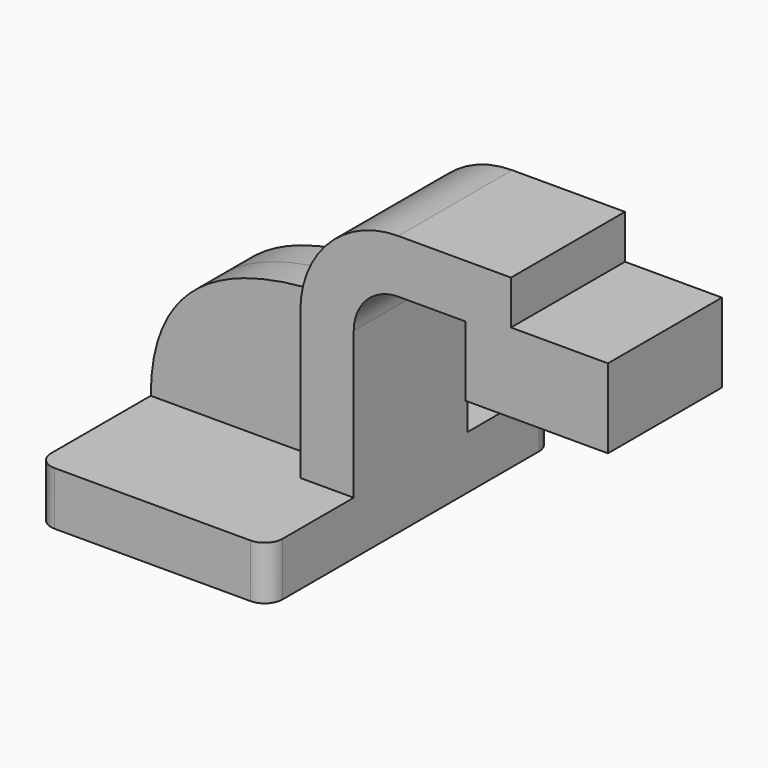
from build123d import *

# Parameters (mm, degrees)
F1_DEPTH = 63.5
F0_W     = 16.2215043542
F0_H     = 3.3740014491
F2_DEPTH = 25.4
F3_DEPTH = 12.7
F4_R     = 6.35


with BuildPart() as f1:
    # F0 (on Front) → F1 (new body, symmetric)
    with BuildSketch(Plane.XZ):
        Polygon((-41.275, -9.525), (41.275, -9.525), (41.275, 9.525), (22.225, 9.525), (-41.275, 9.525), align=None)
    extrude(amount=F1_DEPTH, both=True)

    # F0 (on Front) → F2 (join, symmetric)
    with BuildSketch(Plane.XZ):
        Polygon((97.3541051817, 77.81544), (81.1326008275, 77.81544), (81.1326008275, 52.9319414491), (131.9326008275, 52.9319414491), (131.9326008275, 81.1894414491), (97.3541051817, 81.1894414491), align=None)
        Polygon((-41.275, -9.525), (41.275, -9.525), (41.275, 9.525), (22.225, 9.525), (-41.275, 9.525), align=None)
        with Locations((89.2433530046, 79.5024407246)):
            Rectangle(F0_W, F0_H)
        with BuildLine():
            Line((22.225, 9.525), (41.275, 9.525))
            Line((41.275, 9.525), (41.275, 61.94044))
            ThreePointArc((41.275, 61.94044), (45.9246798487, 73.1657601513), (57.15, 77.81544))
            Line((57.15, 77.81544), (81.1326008275, 77.81544))
            Line((81.1326008275, 77.81544), (81.1326008275, 81.1894414491))
            Line((81.1326008275, 81.1894414491), (97.3541051817, 81.1894414491))
            Line((97.3541051817, 81.1894414491), (97.3541051817, 96.86544))
            Line((97.3541051817, 96.86544), (57.15, 96.86544))
            ThreePointArc((57.15, 96.86544), (32.4542956671, 86.6361443329), (22.225, 61.94044))
            Line((22.225, 61.94044), (22.225, 9.525))
        make_face()
    extrude(amount=F2_DEPTH, both=True)

    # F0 (on Front) → F3 (join, symmetric)
    with BuildSketch(Plane.XZ):
        with BuildLine():
            add(Edge.make_bspline(
                [(-41.275, 9.525), (-41.2206873298, 45.4989261925), (-17.1644557267, 60.9636493027), (22.225, 61.94044)],
                knots=[0, 0, 0, 0, 82.3384985921, 82.3384985921, 82.3384985921, 82.3384985921], degree=3))
            Line((-41.275, 9.525), (22.225, 9.525))
            Line((22.225, 9.525), (22.225, 61.94044))
        make_face()
    extrude(amount=F3_DEPTH, both=True)

    # F4
    f4_edges = [f1.edges().sort_by_distance(p)[0] for p in [
        (41.275, -63.5, 0),
        (-41.275, -63.5, 0),
        (41.275, 63.5, 0),
        (-41.275, 63.5, 0),
    ]]
    fillet(f4_edges, radius=F4_R)


solid = f1.part
